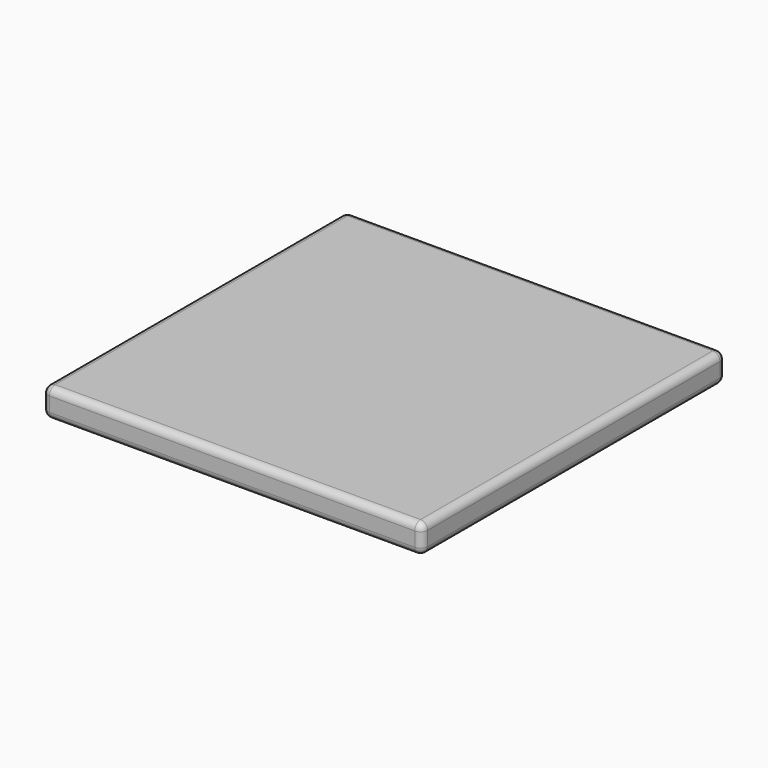
from build123d import *

# Parameters (mm, degrees)
BOX_W     = 53
BOX_H     = 53
BOX_DEPTH = 4
FILLET_R  = 1


with BuildPart() as part:
    # Box → Box (new body)
    with BuildSketch(Plane.XY):
        with Locations((26.5, 26.5)):
            Rectangle(BOX_W, BOX_H)
    extrude(amount=BOX_DEPTH)

    # Fillet
    fillet_edges = [part.edges().sort_by_distance(p)[0] for p in [
        (0, 0, 2),
        (0, 26.5, 4),
        (0, 53, 2),
        (0, 26.5, 0),
        (53, 0, 2),
        (53, 26.5, 4),
        (53, 53, 2),
        (53, 26.5, 0),
        (26.5, 0, 0),
        (26.5, 0, 4),
        (26.5, 53, 0),
        (26.5, 53, 4),
    ]]
    fillet(fillet_edges, radius=FILLET_R)


solid = part.part
